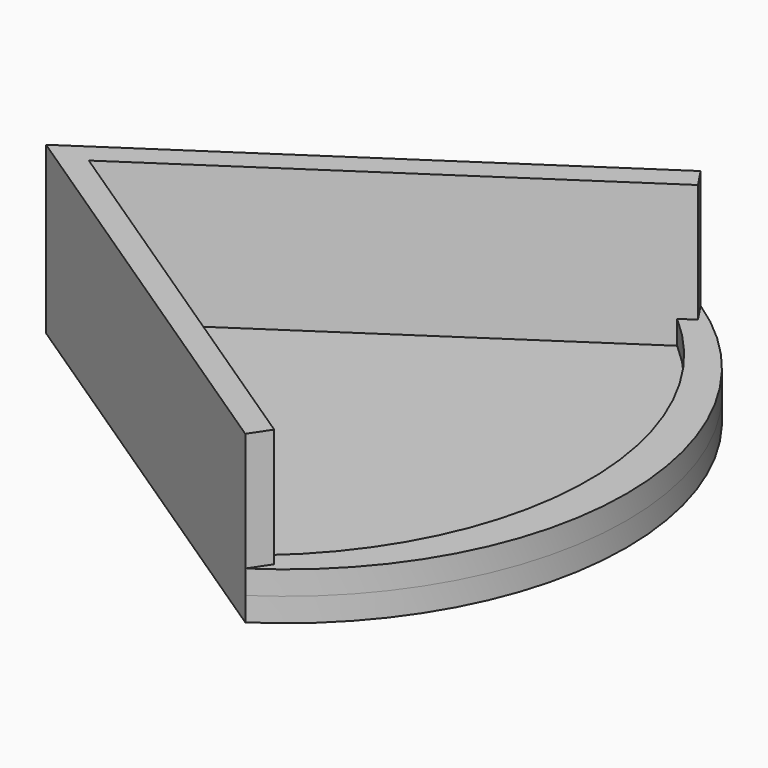
from build123d import *

# Parameters (mm, degrees)
F1_DEPTH = 12.7
F3_DEPTH = 76.2
F5_DEPTH = 12.7


with BuildPart() as f1:
    # F0 (on Top) → F1 (new body)
    with BuildSketch(Plane.XY):
        Polygon((228.6, 152.4), (0, 0), (228.6, 0), align=None)
        Polygon((228.6, 0), (0, 0), (228.6, -152.4), align=None)
        with BuildLine():
            Line((228.6, 152.4), (228.6, 0))
            Line((228.6, 0), (228.6, -152.4))
            ThreePointArc((228.6, -152.4), (310.793908, 0), (228.6, 152.4))
        make_face()
    extrude(amount=F1_DEPTH)

    # F2 (on face) → F3 (join)
    with BuildSketch(Plane.XY.offset(12.7)):
        Polygon((235.644692, 141.832961), (228.6, 152.4), (11.447625, 7.63175), (22.895251, 0), align=None)
        Polygon((0, 0), (228.6, -152.4), (235.644692, -141.832961), (22.895251, 0), (11.447625, 7.63175), align=None)
    extrude(amount=F3_DEPTH)


with BuildPart() as f5:
    # F4 (on face) → F5 (new body)
    with BuildSketch(Plane.XY.offset(12.7)):
        with BuildLine():
            Line((235.644692, -141.832961), (228.6, -152.4))
            ThreePointArc((228.6, -152.4), (310.793908, 0), (228.6, 152.4))
            Line((228.6, 152.4), (235.644692, 141.832961))
            Line((235.644692, 141.832961), (228.384268, 136.992678))
            ThreePointArc((228.384268, 136.992678), (290.766762, 0), (228.384268, -136.992678))
            Line((228.384268, -136.992678), (235.644692, -141.832961))
        make_face()
    extrude(amount=F5_DEPTH)


solid = Compound([f1.part, f5.part])
